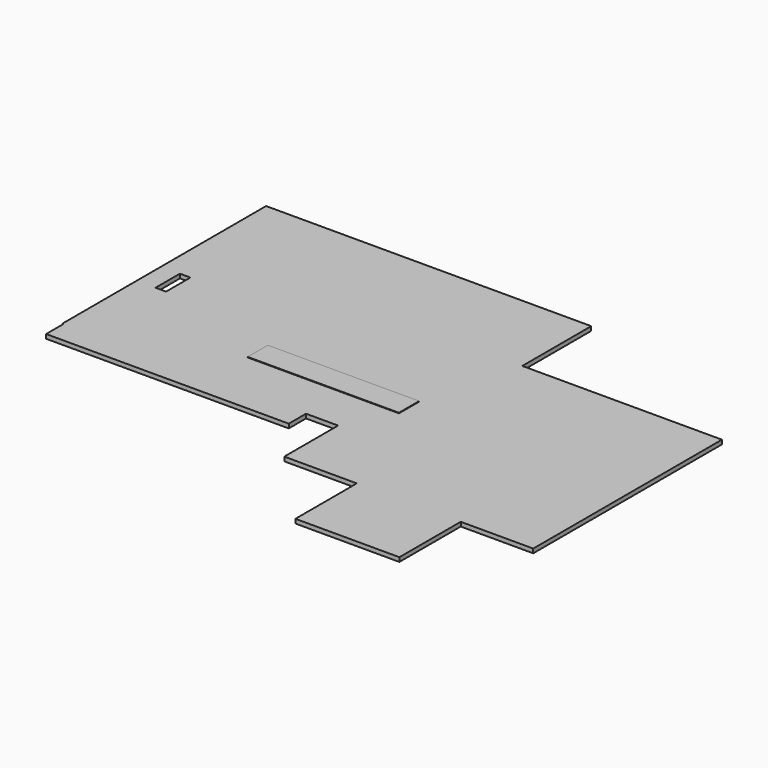
from build123d import *

# Parameters (mm, degrees)
F0_W     = 63.5
F0_H     = 184.15
F1_DEPTH = 25.4
F2_W     = 914.4
F2_H     = 152.4
F3_DEPTH = 3.175


with BuildPart() as f1:
    # F0 (on Top) → F1 (new body)
    with BuildSketch(Plane.XY):
        Polygon((568.325, 266.7), (-1397, 266.7), (-1397, -1273.302), (-1390.65, -1273.302), (-1390.65, -1403.477), (76.2, -1403.477), (76.2, -1273.175), (270.002, -1273.175), (270.002, -1679.575), (708.152, -1679.575), (708.152, -2143.125), (1336.675, -2143.125), (1336.675, -1679.575), (1774.825, -1679.575), (1774.825, -254), (568.325, -254), align=None)
        with Locations((-1250.95, -619.252)):
            Rectangle(F0_W, F0_H, mode=Mode.SUBTRACT)
    extrude(amount=-F1_DEPTH)


with BuildPart() as f3:
    # F2 (on face) → F3 (new body)
    with BuildSketch(Plane.XY):
        with Locations((-40.733668, -920.143247)):
            Rectangle(F2_W, F2_H)
    extrude(amount=F3_DEPTH)


solid = Compound([f1.part, f3.part])
